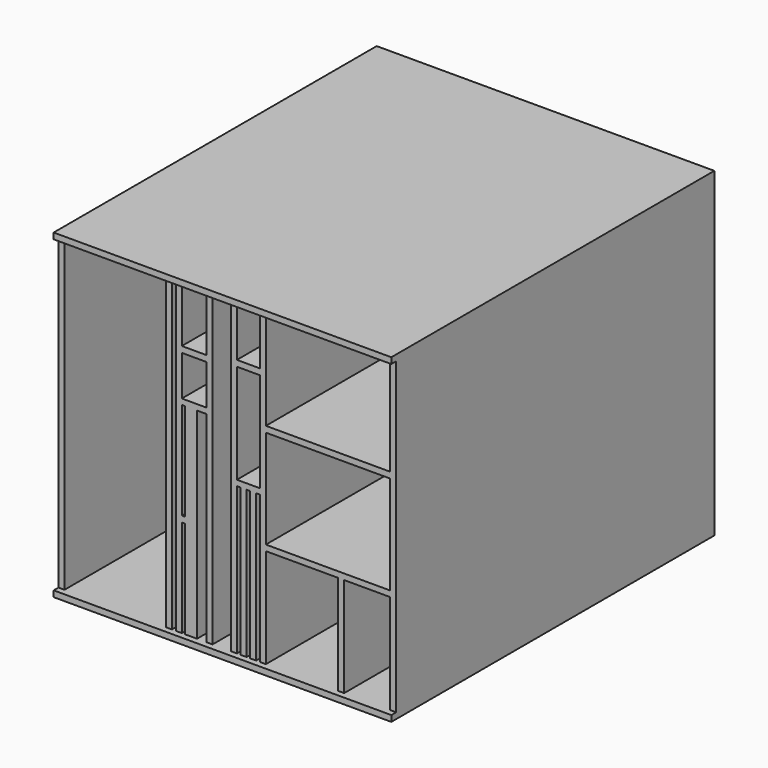
from build123d import *

# Parameters (mm, degrees)
F0_W     = 560.33
F0_H     = 532.76
F0_W_2   = 5.08
F0_H_2   = 161.7
F0_W_3   = 15.6
F0_H_3   = 333.4
F0_W_4   = 6.03
F0_H_4   = 244.5
F0_W_5   = 120
F0_H_5   = 165.1
F0_W_6   = 76.2
F0_W_7   = 168.3
F0_H_6   = 512.76
F0_W_8   = 6.35
F0_W_9   = 30.5
F0_H_7   = 512.8
F0_W_10  = 40.89
F0_H_8   = 66.7
F0_H_9   = 93.309008
F0_W_11  = 38.09
F0_W_12  = 206.2
F0_H_10  = 163.5
F0_H_11  = 83.89079
F0_H_12  = 164.569237
F1_DEPTH = 650
F2_W     = 10
F2_H     = 532.76
F3_DEPTH = 560.33
F4_W     = 560.33
F4_H     = 9.96
F4_H_2   = 10
F5_DEPTH = 10


with BuildPart() as f1:
    # F0 (on Front) → F1 (new body)
    with BuildSketch(Plane.XZ):
        with Locations((-1.447709, 27.52879)):
            Rectangle(F0_W, F0_H)
        with Locations((-74.422709, -148.00121)):
            Rectangle(F0_W_2, F0_H_2, mode=Mode.SUBTRACT)
        with Locations((-43.872709, -62.15121)):
            Rectangle(F0_W_3, F0_H_3, mode=Mode.SUBTRACT)
        with Locations((-74.422709, 23.69879)):
            Rectangle(F0_W_2, F0_H_2, mode=Mode.SUBTRACT)
        with Locations((17.442291, -106.60121)):
            Rectangle(F0_W_4, F0_H_4, mode=Mode.SUBTRACT)
        with Locations((33.472291, -106.60121)):
            Rectangle(F0_W_4, F0_H_4, mode=Mode.SUBTRACT)
        with Locations((49.502291, -106.60121)):
            Rectangle(F0_W_4, F0_H_4, mode=Mode.SUBTRACT)
        with Locations((122.517291, -146.30121)):
            Rectangle(F0_W_5, F0_H_5, mode=Mode.SUBTRACT)
        with Locations((230.617291, -146.30121)):
            Rectangle(F0_W_6, F0_H_5, mode=Mode.SUBTRACT)
        with Locations((-187.462709, 27.52879)):
            Rectangle(F0_W_7, F0_H_6, mode=Mode.SUBTRACT)
        with Locations((-90.137709, 27.52879)):
            Rectangle(F0_W_8, F0_H_6, mode=Mode.SUBTRACT)
        with Locations((-10.822709, 27.54879)):
            Rectangle(F0_W_9, F0_H_7, mode=Mode.SUBTRACT)
        with Locations((-56.517709, 147.249782)):
            Rectangle(F0_W_10, F0_H_8, mode=Mode.SUBTRACT)
        with Locations((-56.517709, 237.254286)):
            Rectangle(F0_W_10, F0_H_9, mode=Mode.SUBTRACT)
        with Locations((33.472291, 107.508)):
            Rectangle(F0_W_11, F0_H_5, mode=Mode.SUBTRACT)
        with Locations((165.617291, 27.629553)):
            Rectangle(F0_W_12, F0_H_10, mode=Mode.SUBTRACT)
        with Locations((33.472291, 242.003395)):
            Rectangle(F0_W_11, F0_H_11, mode=Mode.SUBTRACT)
        with Locations((165.617291, 201.664171)):
            Rectangle(F0_W_12, F0_H_12, mode=Mode.SUBTRACT)
    extrude(amount=F1_DEPTH)

    # F2 (on face) → F3 (join, through all)
    with BuildSketch(Plane(origin=(-281.612709, 0, 0), x_dir=(0, -1, 0), z_dir=(-1, 0, 0))):
        with Locations((-5, 27.52879)):
            Rectangle(F2_W, F2_H)
    extrude(amount=-F3_DEPTH)

    # F4 (on face) → F5 (join)
    with BuildSketch(Plane.XZ.offset(650)):
        with Locations((-1.447709, 288.92879)):
            Rectangle(F4_W, F4_H)
        with Locations((-1.447709, -233.85121)):
            Rectangle(F4_W, F4_H_2)
    extrude(amount=F5_DEPTH)


solid = f1.part
